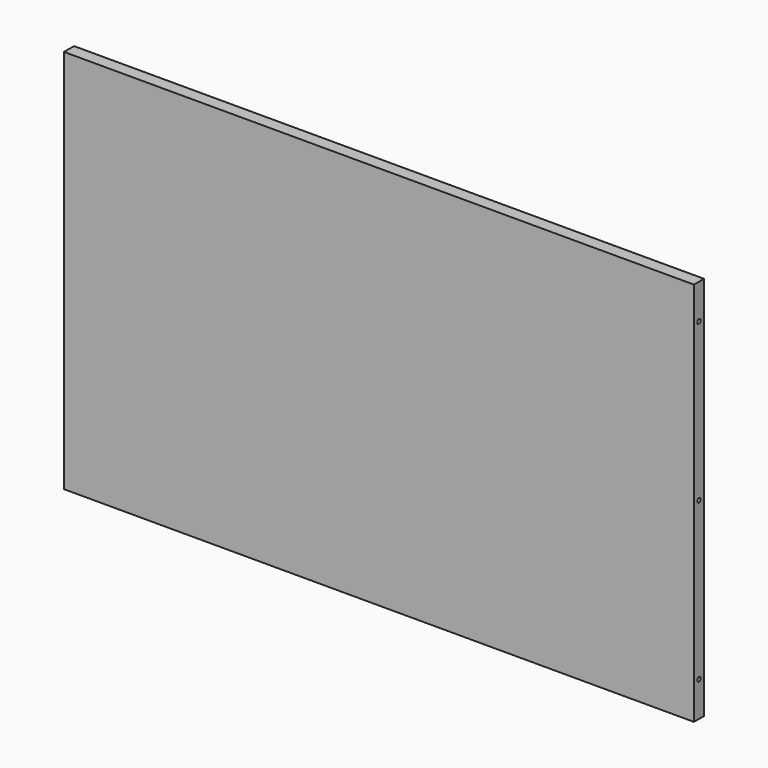
from build123d import *

# Parameters (mm, degrees)
F0_W     = 900
F0_H     = 550
F1_DEPTH = 18
F2_R     = 3
F3_DEPTH = 900.001


with BuildPart() as f1:
    # F0 (on Front) → F1 (new body)
    with BuildSketch(Plane.XZ):
        with Locations((450, 275)):
            Rectangle(F0_W, F0_H)
    extrude(amount=F1_DEPTH)

    # F2 (on face) → F3 (cut, through all)
    with BuildSketch(Plane.YZ.offset(900)):
        with Locations((-9, 50)):
            Circle(F2_R)
        with Locations((-9, 275)):
            Circle(F2_R)
        with Locations((-9, 500)):
            Circle(F2_R)
    extrude(amount=-F3_DEPTH, mode=Mode.SUBTRACT)


solid = f1.part
